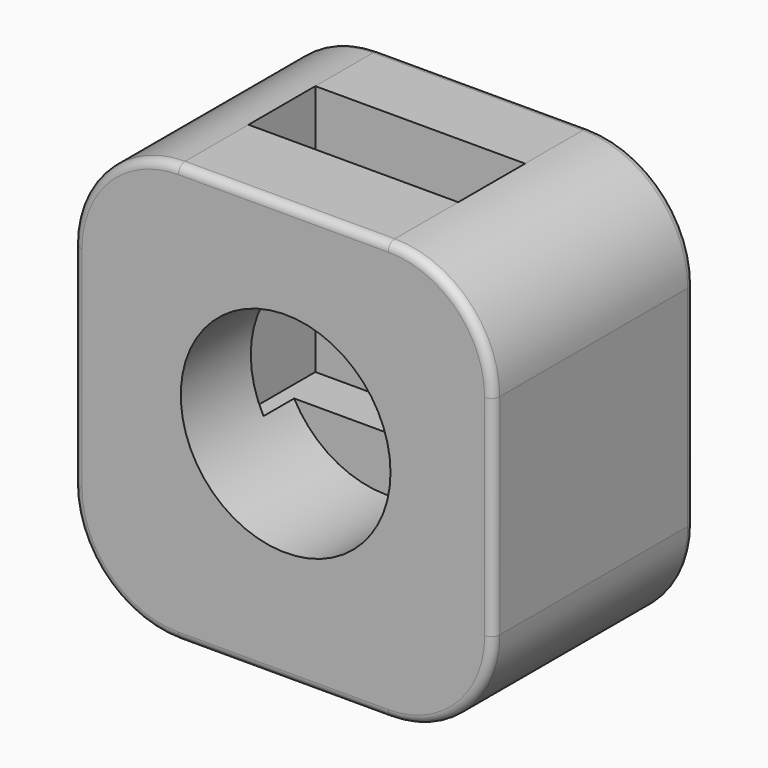
from build123d import *

# Parameters (mm, degrees)
F1_DEPTH = 30
F2_R     = 2
F3_R     = 2
F4_R     = 25
F5_DEPTH = 30
F6_W     = 50
F6_H     = 19.9247
F7_DEPTH = 60


with BuildPart() as f1:
    # F0 (on Front) → F1 (new body, symmetric)
    with BuildSketch(Plane.XZ):
        with BuildLine():
            Line((27.891926, 68.585901), (-22.108074, 68.585901))
            ThreePointArc((-22.108074, 68.585901), (-39.785743, 61.263571), (-47.108074, 43.585901))
            Line((-47.108074, 43.585901), (-47.108074, -6.414099))
            ThreePointArc((-47.108074, -6.414099), (-39.785743, -24.091768), (-22.108074, -31.414099))
            Line((-22.108074, -31.414099), (27.891926, -31.414099))
            ThreePointArc((27.891926, -31.414099), (45.569596, -24.091768), (52.891926, -6.414099))
            Line((52.891926, -6.414099), (52.891926, 43.585901))
            ThreePointArc((52.891926, 43.585901), (45.569596, 61.263571), (27.891926, 68.585901))
        make_face()
    extrude(amount=F1_DEPTH, both=True)

    # F2
    f2_edges = [f1.edges().sort_by_distance(p)[0] for p in [
        (52.891926, 30, 18.585901),
        (45.569596, 30, 61.263571),
        (2.891926, 30, 68.585901),
        (-39.785743, 30, 61.263571),
        (-47.108074, 30, 18.585901),
        (-39.785743, 30, -24.091768),
        (2.891926, 30, -31.414099),
        (45.569596, 30, -24.091768),
    ]]
    fillet(f2_edges, radius=F2_R)

    # F3
    f3_edges = [f1.edges().sort_by_distance(p)[0] for p in [
        (52.891926, -30, 18.585901),
        (45.569596, -30, 61.263571),
        (2.891926, -30, 68.585901),
        (-39.785743, -30, 61.263571),
        (-47.108074, -30, 18.585901),
        (-39.785743, -30, -24.091768),
        (2.891926, -30, -31.414099),
        (45.569596, -30, -24.091768),
    ]]
    fillet(f3_edges, radius=F3_R)

    # F4 (on face) → F5 (cut)
    with BuildSketch(Plane.XZ.offset(30)):
        with Locations((3.43938, 20.517696)):
            Circle(F4_R)
    extrude(amount=-F5_DEPTH, mode=Mode.SUBTRACT)

    # F6 (on face) → F7 (cut)
    with BuildSketch(Plane.XY.offset(68.585901)):
        with Locations((2.891926, 0.830196)):
            Rectangle(F6_W, F6_H)
    extrude(amount=-F7_DEPTH, mode=Mode.SUBTRACT)


solid = f1.part
